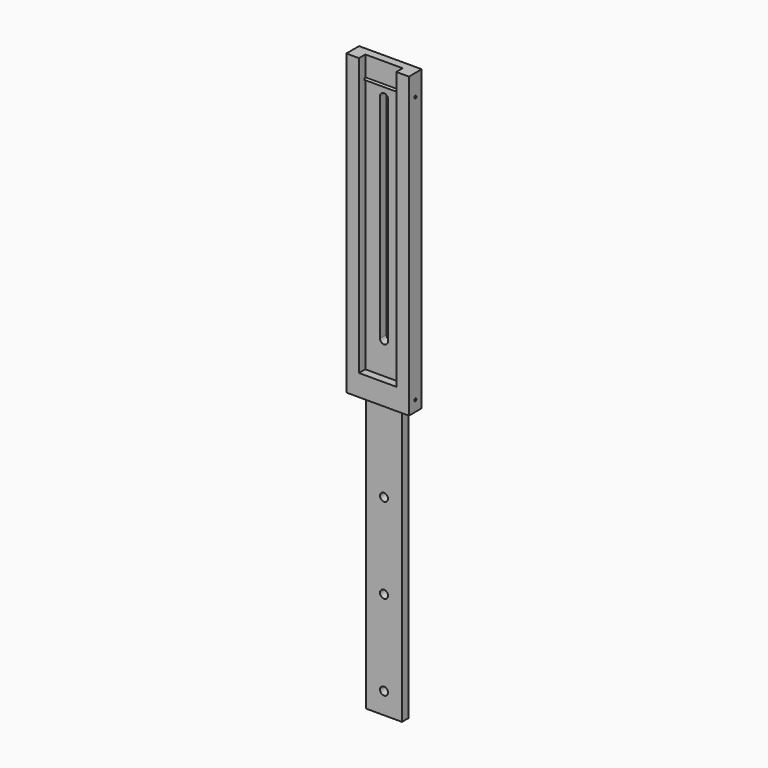
from build123d import *

# Parameters (mm, degrees)
F0_W      = 74.6125
F0_H      = 19.05
F1_DEPTH  = 342.9
F2_W      = 25.4
F2_H      = 19.05
F3_DEPTH  = 381
F4_W      = 44.45
F4_H      = 19.05
F5_DEPTH  = 330.2
F6_W      = 6.35
F6_H      = 19.05
F6_W_2    = 0.79375
F6_H_2    = 9.525
F6_W_3    = 42.8625
F7_DEPTH  = 330.2
F9_D      = 9.525
F9_DEPTH  = 19.051
F10_W     = 9.504689079
F10_H     = 254.1668581462
F11_DEPTH = 19.051
F13_D     = 3.175


with BuildPart() as f1:
    # F0 (on Top) → F1 (new body, symmetric)
    with BuildSketch(Plane.XY):
        Rectangle(F0_W, F0_H)
    extrude(amount=F1_DEPTH, both=True)

    # F2 (on face) → F3 (join)
    with BuildSketch(Plane(origin=(0, 0, -342.9), x_dir=(1, 0, 0), z_dir=(0, 0, -1))):
        with Locations((0, -9.525)):
            Rectangle(F2_W, F2_H)
    extrude(amount=-F3_DEPTH)

    # F4 (on face) → F5 (cut)
    with BuildSketch(Plane.XY.offset(342.9)):
        with Locations((0, -9.525)):
            Rectangle(F4_W, F4_H)
    extrude(amount=-F5_DEPTH, mode=Mode.SUBTRACT)

    # F6 (on face) → F7 (cut)
    with BuildSketch(Plane(origin=(0, 0, -342.9), x_dir=(1, 0, 0), z_dir=(0, 0, -1))):
        with Locations((-34.13125, 0)):
            Rectangle(F6_W, F6_H)
        Polygon((-30.95625, 9.525), (-30.95625, -9.525), (-21.43125, -9.525), (-21.43125, 0), (-22.225, 0), (-22.225, 9.525), align=None)
        with Locations((-21.828125, 4.7625)):
            Rectangle(F6_W_2, F6_H_2)
        with Locations((0, 4.7625)):
            Rectangle(F6_W_3, F6_H_2)
        Polygon((22.225, 0), (21.43125, 0), (21.43125, -9.525), (30.95625, -9.525), (30.95625, 9.525), (22.225, 9.525), align=None)
        with Locations((21.828125, 4.7625)):
            Rectangle(F6_W_2, F6_H_2)
        with Locations((34.13125, 0)):
            Rectangle(F6_W, F6_H)
    extrude(amount=-F7_DEPTH, mode=Mode.SUBTRACT)

    # F9 (through all, one way)
    with BuildSketch(Plane(origin=(0, 9.525, 0), x_dir=(-1, 0, 0), z_dir=(0, 1, 0))):
        with Locations((0, -317.5), (0, -215.9), (0, -114.3), (0, 50.8), (0, 304.8)):
            Circle(F9_D / 2)
    extrude(amount=-F9_DEPTH, mode=Mode.SUBTRACT)

    # F10 (on face) → F11 (cut, through all)
    with BuildSketch(Plane(origin=(0, 9.525, 0), x_dir=(-1, 0, 0), z_dir=(0, 1, 0))):
        with Locations((-0.0052560493, 177.5006012835)):
            Rectangle(F10_W, F10_H)
    extrude(amount=-F11_DEPTH, mode=Mode.SUBTRACT)

    # F13 (through all)
    with Locations(Plane(origin=(-37.30625, 0, 0), x_dir=(0, -1, 0), z_dir=(-1, 0, 0))):
        with Locations((0, 317.5), (0, 0)):
            Hole(F13_D / 2)


solid = f1.part
